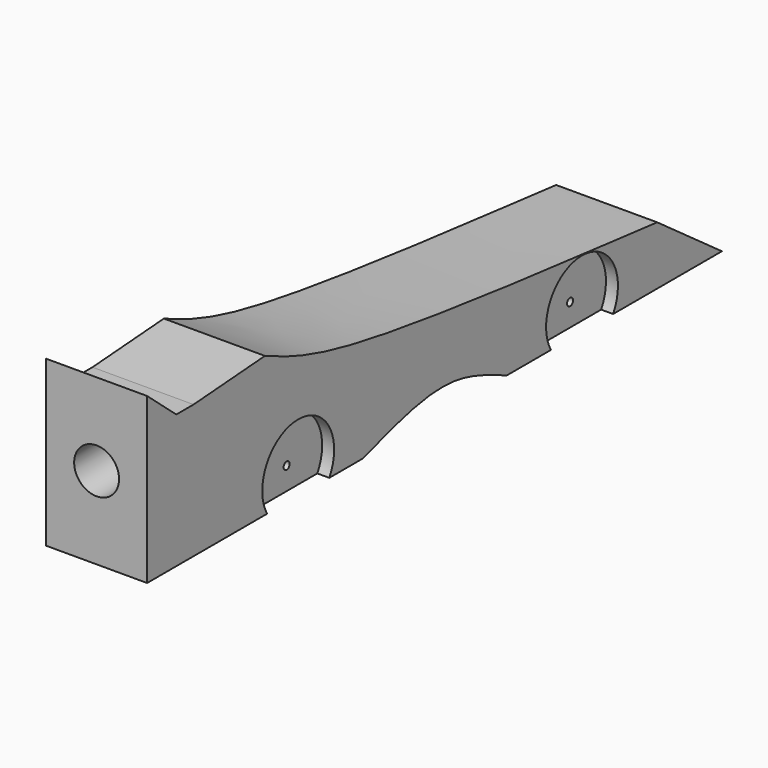
from build123d import *

# Parameters (mm, degrees)
F1_DEPTH = 21.43125
F2_R     = 9.525
F3_DEPTH = 50.8
F4_R     = 1.5875
F6_DEPTH = 43.18
F7_R     = 19.05
F8_DEPTH = 5.08


with BuildPart() as f1:
    # F0 (on Right) → F1 (new body, symmetric)
    with BuildSketch(Plane.YZ):
        Polygon((-152.4, 69.85), (-152.4, 0), (152.4, 0), (152.4, 19.05), align=None)
    extrude(amount=F1_DEPTH, both=True)

    # F2 (on face) → F3 (cut)
    with BuildSketch(Plane.XZ.offset(152.4)):
        with Locations((0, 34.925)):
            Circle(F2_R)
    extrude(amount=-F3_DEPTH, mode=Mode.SUBTRACT)

    # F4 (on face) → F6 (intersect)
    with BuildSketch(Plane.YZ.offset(21.43125)):
        with BuildLine():
            Line((152.4, 0), (118.0612299003, 24.77312835))
            add(Edge.make_bspline(
                [(-89.9518863056, 59.4419810509), (-78.3312719762, 54.2757015098), (-46.7012859115, 40.2136781728), (104.83454077, 26.4256487446), (118.0612299003, 24.77312835)],
                knots=[0, 0, 0, 0, 0.3407661179, 0.9275264848, 0.9275264848, 0.9275264848, 0.9275264848], degree=3))
            Line((-89.9518863056, 59.4419810509), (-127.7775764465, 56.6512197256))
            Line((-127.7775764465, 56.6512197256), (-136.9280835145, 56.6512197256))
            Line((-136.9280835145, 56.6512197256), (-152.4, 69.85))
            Line((-152.4, 69.85), (-152.4, 0))
            Line((-152.4, 0), (-37.9903614521, 0))
            add(Edge.make_bspline(
                [(-37.9903614521, 0), (-22.7117503508, 5.0129187767), (5.7637416088, 14.3557397552), (27.9814406153, 4.5462011009), (38.2781662047, 0)],
                knots=[0, 0, 0, 0, 0.5365530163, 1, 1, 1, 1], degree=3))
            Line((38.2781662047, 0), (152.4, 0))
        make_face()
        with Locations((-72.0704272389, 9.525)):
            Circle(F4_R, mode=Mode.SUBTRACT)
        with Locations((78.2117620111, 9.525)):
            Circle(F4_R, mode=Mode.SUBTRACT)
    extrude(amount=-F6_DEPTH, mode=Mode.INTERSECT)

    # F7 (on face) → F8 (cut)
    with BuildSketch(Plane.YZ.offset(21.43125)):
        with Locations((-72.2883281696, 9.525)):
            Circle(F7_R)
        with Locations((78.2117247581, 9.5152128488)):
            Circle(F7_R)
    extrude(amount=-F8_DEPTH, mode=Mode.SUBTRACT)


solid = f1.part
